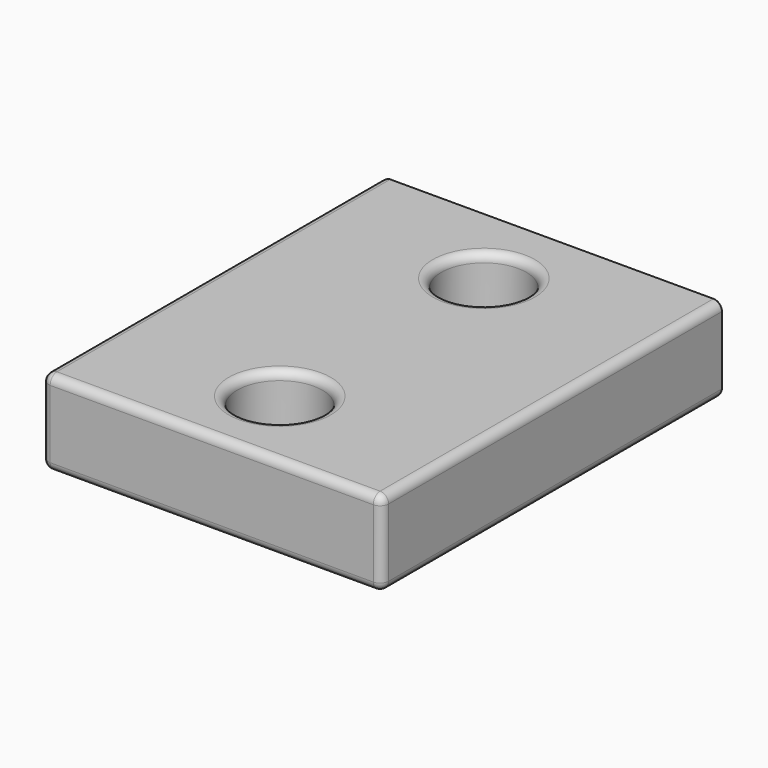
from build123d import *

# Parameters (mm, degrees)
F0_W     = 203.2
F0_H     = 254
F0_R     = 25.4
F1_DEPTH = 50.8
F2_R     = 5.08


with BuildPart() as f1:
    # F0 (on Top) → F1 (new body)
    with BuildSketch(Plane.XY):
        with Locations((101.6, 127)):
            Rectangle(F0_W, F0_H)
        with Locations((101.6, 50.8)):
            Circle(F0_R, mode=Mode.SUBTRACT)
        with Locations((101.6, 203.2)):
            Circle(F0_R, mode=Mode.SUBTRACT)
    extrude(amount=F1_DEPTH)

    # F2
    f2_edges = [f1.edges().sort_by_distance(p)[0] for p in [
        (101.6, 254, 0),
        (76.2, 203.2, 0),
        (0, 127, 0),
        (0, 127, 50.8),
        (0, 254, 25.4),
        (76.2, 50.8, 0),
        (203.2, 127, 0),
        (101.6, 0, 0),
        (0, 0, 25.4),
        (76.2, 203.2, 50.8),
        (76.2, 50.8, 50.8),
        (203.2, 0, 25.4),
        (101.6, 0, 50.8),
        (203.2, 127, 50.8),
    ]]
    fillet(f2_edges, radius=F2_R)


solid = f1.part
